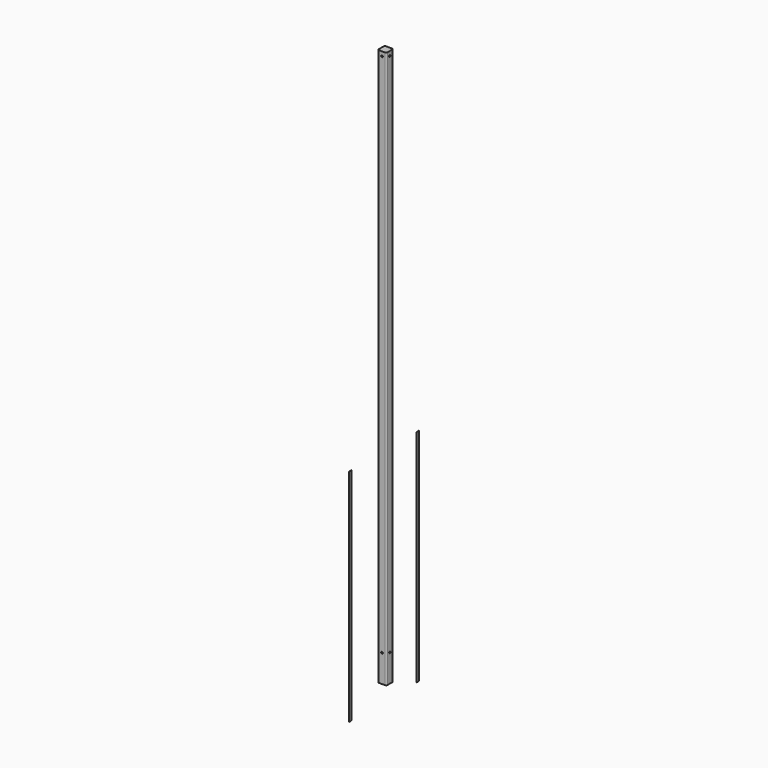
from build123d import *

# Parameters (mm, degrees)
F1_DEPTH  = 2438.4
F2_W      = 12.7
F2_H      = 965.2
F4_DEPTH  = 0.254
F3_W      = 12.7
F3_H      = 965.2
F5_DEPTH  = 0.254
F7_DEPTH  = 38.1
F9_DEPTH  = 38.1
F11_DEPTH = 38.1
F13_DEPTH = 38.1


with BuildPart() as f1:
    # F0 (on Top) → F1 (new body)
    with BuildSketch(Plane.XY):
        with BuildLine():
            ThreePointArc((19.05, 12.7), (17.190128, 17.190128), (12.7, 19.05))
            Line((12.7, 19.05), (-12.7, 19.05))
            ThreePointArc((-12.7, 19.05), (-17.190128, 17.190128), (-19.05, 12.7))
            Line((-19.05, 12.7), (-19.05, -12.7))
            ThreePointArc((-19.05, -12.7), (-17.190128, -17.190128), (-12.7, -19.05))
            Line((-12.7, -19.05), (12.7, -19.05))
            ThreePointArc((12.7, -19.05), (17.190128, -17.190128), (19.05, -12.7))
            Line((19.05, -12.7), (19.05, 12.7))
        make_face()
    extrude(amount=F1_DEPTH)

    # F6 (on face) → F7 (cut)
    with BuildSketch(Plane.XZ.offset(19.05)):
        with BuildLine():
            ThreePointArc((0, 116.84), (2.694077, 117.955923), (3.81, 120.65))
            ThreePointArc((3.81, 120.65), (-2.694077, 123.344077), (0, 116.84))
        make_face()
    extrude(amount=-F7_DEPTH, mode=Mode.SUBTRACT)

    # F8 (on face) → F9 (cut)
    with BuildSketch(Plane.YZ.offset(19.05)):
        with BuildLine():
            ThreePointArc((0, 116.84), (2.694077, 117.955923), (3.81, 120.65))
            ThreePointArc((3.81, 120.65), (-2.694077, 123.344077), (0, 116.84))
        make_face()
    extrude(amount=-F9_DEPTH, mode=Mode.SUBTRACT)

    # F10 (on face) → F11 (cut)
    with BuildSketch(Plane.YZ.offset(19.05)):
        with BuildLine():
            ThreePointArc((0, 2423.16), (-2.694077, 2416.655923), (3.81, 2419.35))
            ThreePointArc((3.81, 2419.35), (2.694077, 2422.044077), (0, 2423.16))
        make_face()
    extrude(amount=-F11_DEPTH, mode=Mode.SUBTRACT)

    # F12 (on face) → F13 (cut)
    with BuildSketch(Plane.XZ.offset(19.05)):
        with BuildLine():
            ThreePointArc((0, 2423.16), (-2.694077, 2416.655923), (3.81, 2419.35))
            ThreePointArc((3.81, 2419.35), (2.694077, 2422.044077), (0, 2423.16))
        make_face()
    extrude(amount=-F13_DEPTH, mode=Mode.SUBTRACT)


with BuildPart() as f4:
    # F2 (on Right) → F4 (new body)
    with BuildSketch(Plane.YZ):
        with Locations((-192.550282, 409.951065)):
            Rectangle(F2_W, F2_H)
    extrude(amount=F4_DEPTH)


with BuildPart() as f5:
    # F3 (on Right) → F5 (new body)
    with BuildSketch(Plane.YZ):
        with Locations((175.864179, 412.127815)):
            Rectangle(F3_W, F3_H)
    extrude(amount=F5_DEPTH)


solid = Compound([f1.part, f4.part, f5.part])
